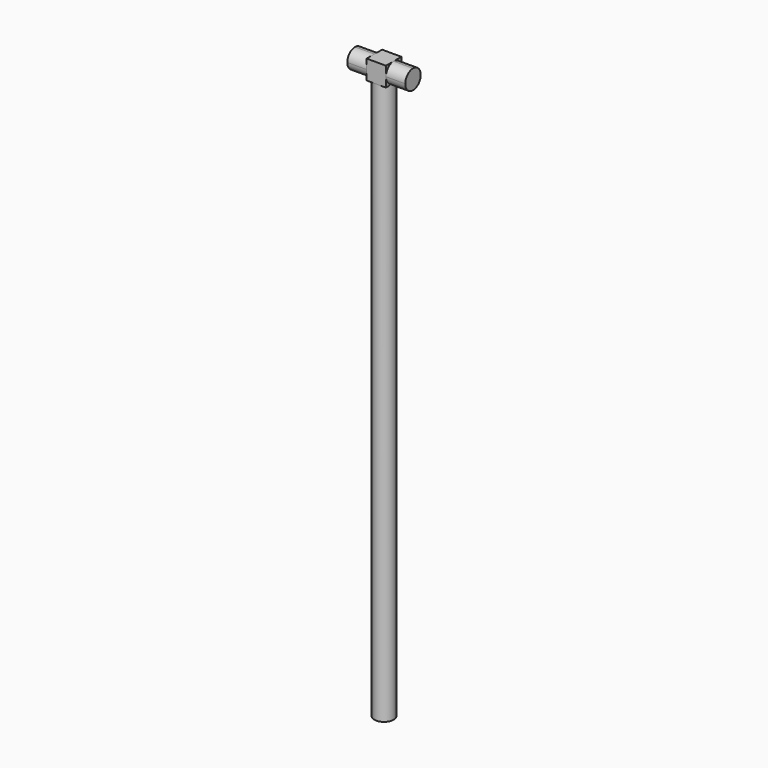
from build123d import *

# Parameters (mm, degrees)
F0_R     = 2.5
F1_DEPTH = 145
F3_DEPTH = 5
F5_DEPTH = 5
F7_DEPTH = 5


with BuildPart() as f1:
    # F0 (on Top) → F1 (new body)
    with BuildSketch(Plane.XY):
        Circle(F0_R)
    extrude(amount=F1_DEPTH)

    # F2 (on face) → F3 (join)
    with BuildSketch(Plane.XY.offset(145)):
        with BuildLine():
            Line((2.5, 2.5), (0, 2.5))
            ThreePointArc((0, 2.5), (1.767766953, 1.767766953), (2.5, 0))
            Line((2.5, 0), (2.5, 2.5))
        make_face()
        with BuildLine():
            Line((2.5, -2.5), (2.5, 0))
            ThreePointArc((2.5, 0), (1.767766953, -1.767766953), (0, -2.5))
            Line((0, -2.5), (2.5, -2.5))
        make_face()
        with BuildLine():
            ThreePointArc((2.5, 0), (1.767766953, 1.767766953), (0, 2.5))
            ThreePointArc((0, 2.5), (-1.767766953, 1.767766953), (-2.5, 0))
            ThreePointArc((-2.5, 0), (-1.767766953, -1.767766953), (0, -2.5))
            ThreePointArc((0, -2.5), (1.767766953, -1.767766953), (2.5, 0))
        make_face()
        with BuildLine():
            Line((0, 2.5), (-2.5, 2.5))
            Line((-2.5, 2.5), (-2.5, 0))
            ThreePointArc((-2.5, 0), (-1.767766953, 1.767766953), (0, 2.5))
        make_face()
        with BuildLine():
            ThreePointArc((0, -2.5), (-1.767766953, -1.767766953), (-2.5, 0))
            Line((-2.5, 0), (-2.5, -2.5))
            Line((-2.5, -2.5), (0, -2.5))
        make_face()
    extrude(amount=F3_DEPTH)

    # F4 (on face) → F5 (join)
    with BuildSketch(Plane(origin=(-2.5, 0, 0), x_dir=(0, -1, 0), z_dir=(-1, 0, 0))):
        with BuildLine():
            ThreePointArc((-2.5, 147.5), (-1.767766953, 145.732233047), (0, 145))
            ThreePointArc((0, 145), (1.767766953, 145.732233047), (2.5, 147.5))
            ThreePointArc((2.5, 147.5), (1.767766953, 149.267766953), (0, 150))
            ThreePointArc((0, 150), (-1.767766953, 149.267766953), (-2.5, 147.5))
        make_face()
    extrude(amount=F5_DEPTH)

    # F6 (on face) → F7 (join)
    with BuildSketch(Plane.YZ.offset(2.5)):
        with BuildLine():
            ThreePointArc((-2.5, 147.5), (-1.767766953, 145.732233047), (0, 145))
            ThreePointArc((0, 145), (1.767766953, 145.732233047), (2.5, 147.5))
            ThreePointArc((2.5, 147.5), (1.767766953, 149.267766953), (0, 150))
            ThreePointArc((0, 150), (-1.767766953, 149.267766953), (-2.5, 147.5))
        make_face()
    extrude(amount=F7_DEPTH)


solid = f1.part
